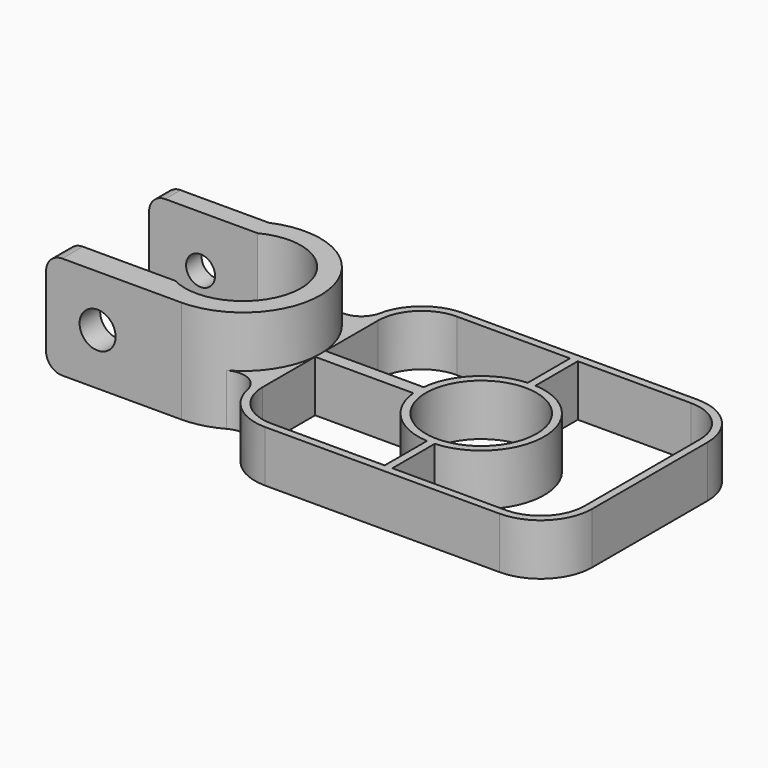
from build123d import *

# Parameters (mm, degrees)
PAD005_DEPTH        = 16
FILLET004_R         = 2.5
HOLE005_D           = 4.5
HOLE005_CBORE_D     = 5.6
HOLE005_CBORE_DEPTH = 4.4
SKETCH025_R         = 8.6
PAD007_DEPTH        = 8
PAD008_DEPTH        = 8


with BuildPart() as part:
    # Sketch021 → Pad005 (new body)
    with BuildSketch(Plane.XY):
        with BuildLine():
            Line((-4.795832, 11), (-21, 11))
            Line((-21, 11), (-21, 8))
            Line((-21, 8), (-4.123106, 8))
            ThreePointArc((-4.123106, -8), (9, 0), (-4.123106, 8))
            Line((-21, -8), (-4.123106, -8))
            Line((-21, -12), (-21, -8))
            Line((0, -12), (-21, -12))
            ThreePointArc((0, -12), (11.74734, 2.44949), (-4.795832, 11))
        make_face()
    extrude(amount=PAD005_DEPTH)

    # Fillet004
    fillet004_edges = [part.edges().sort_by_distance(p)[0] for p in [
        (-21, 9.5, 0),
        (-21, 9.5, 16),
        (-21, -10, 16),
        (-21, -10, 0),
    ]]
    fillet(fillet004_edges, radius=FILLET004_R)

    # Hole005 (through all)
    with Locations(Plane.XZ.offset(12)):
        with Locations((-13, 8)):
            CounterBoreHole(HOLE005_D / 2, HOLE005_CBORE_D / 2, HOLE005_CBORE_DEPTH)

    # Sketch025 → Pad007 (join)
    with BuildSketch(Plane.XY):
        with BuildLine():
            ThreePointArc((18.8, 19.2), (13.143146, 16.856854), (10.8, 11.2))
            Line((10.8, -11.2), (10.8, 11.2))
            ThreePointArc((10.8, -11.2), (13.143146, -16.856854), (18.8, -19.2))
            Line((55.2, -19.2), (18.8, -19.2))
            ThreePointArc((55.2, -19.2), (60.856854, -16.856854), (63.2, -11.2))
            Line((63.2, 11.2), (63.2, -11.2))
            ThreePointArc((63.2, 11.2), (60.856854, 16.856854), (55.2, 19.2))
            Line((18.8, 19.2), (55.2, 19.2))
        make_face()
        with Locations((37, 0)):
            Circle(SKETCH025_R, mode=Mode.SUBTRACT)
        with BuildLine():
            ThreePointArc((18.8, 18), (13.991674, 16.008326), (12, 11.2))
            Line((12, 11.2), (12, 1))
            Line((12, 1), (27.251154, 1))
            ThreePointArc((36.4, 9.781615), (30.213702, 7.070089), (27.251154, 1))
            Line((36.4, 18), (36.4, 9.781615))
            Line((18.8, 18), (36.4, 18))
        make_face(mode=Mode.SUBTRACT)
        with BuildLine():
            ThreePointArc((62, 11.2), (60.008326, 16.008326), (55.2, 18))
            Line((37.6, 18), (55.2, 18))
            Line((37.6, 9.781615), (37.6, 18))
            ThreePointArc((37.6, -9.781615), (46.8, 0), (37.6, 9.781615))
            Line((37.6, -18), (37.6, -9.781615))
            Line((55.2, -18), (37.6, -18))
            ThreePointArc((55.2, -18), (60.008326, -16.008326), (62, -11.2))
            Line((62, 11.2), (62, -11.2))
        make_face(mode=Mode.SUBTRACT)
        with BuildLine():
            ThreePointArc((12, -11.2), (13.991674, -16.008326), (18.8, -18))
            Line((36.4, -18), (18.8, -18))
            Line((36.4, -9.781615), (36.4, -18))
            ThreePointArc((27.251154, -1), (30.213702, -7.070089), (36.4, -9.781615))
            Line((12, -1), (27.251154, -1))
            Line((12, -11.2), (12, -1))
        make_face(mode=Mode.SUBTRACT)
    extrude(amount=PAD007_DEPTH)

    # Sketch026 → Pad008 (join)
    with BuildSketch(Plane.XY):
        with BuildLine():
            ThreePointArc((5.838182, 10.484066), (8.996246, 10.358804), (10.967642, 12.82916))
            Line((10.967642, 12.82916), (10.967642, -12.82916))
            ThreePointArc((10.967642, -12.82916), (8.996246, -10.358804), (5.838182, -10.484066))
            Line((5.838182, -10.484066), (4.427288, -7.950416))
            ThreePointArc((4.427288, -7.950416), (9.1, 0), (4.427288, 7.950416))
            Line((5.838182, 10.484066), (4.427288, 7.950416))
        make_face()
    extrude(amount=PAD008_DEPTH)


solid = part.part
